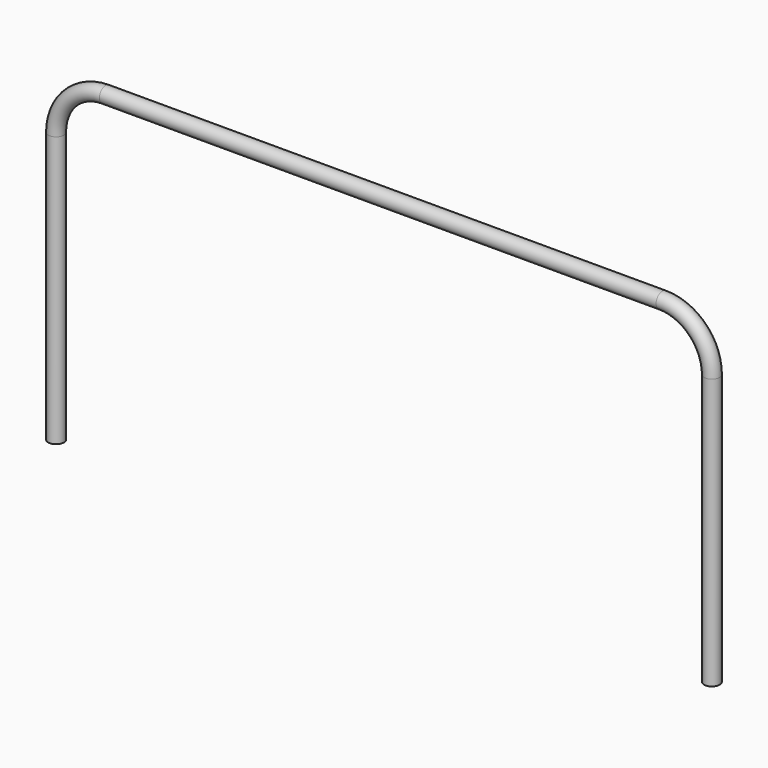
from build123d import *

# Parameters (mm, degrees)
F1_R = 1


with BuildPart() as f2:
    # F2: sweep along a path in F0
    with BuildLine(Plane.XZ) as f2_path:
        Line((-42, 0), (-42, 34.65))
        ThreePointArc((-42, 34.65), (-40.140128, 39.140128), (-35.65, 41))
        Line((-35.65, 41), (0, 41))
        Line((0, 41), (35.65, 41))
        ThreePointArc((35.65, 41), (40.140128, 39.140128), (42, 34.65))
        Line((42, 34.65), (42, 0))
    # F1 (on Top) → F2 (sweep)
    with BuildSketch(Plane.XY):
        with Locations((-42, 0)):
            Circle(F1_R)
    sweep(path=f2_path.line)


solid = f2.part
